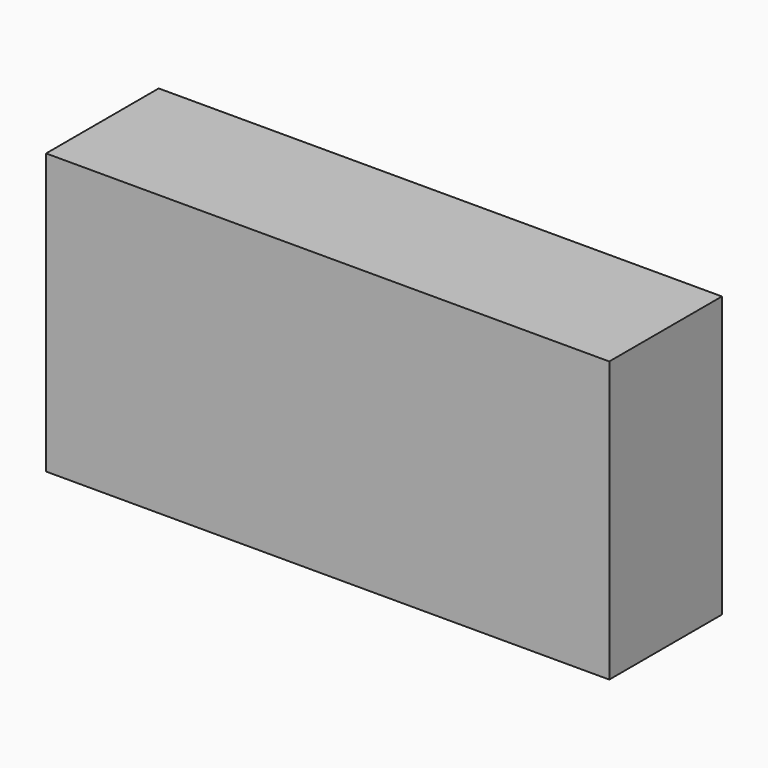
from build123d import *

# Parameters (mm, degrees)
F0_W     = 101.6
F0_H     = 50.525406
F0_W_2   = 19.509831
F0_H_2   = 13.40069
F0_W_3   = 18.721553
F0_H_3   = 13.794828
F0_W_4   = 18.524485
F0_H_4   = 13.597759
F0_W_5   = 17.933276
F0_H_5   = 14.780172
F0_H_6   = 15.568447
F0_W_6   = 17.933277
F0_H_7   = 14.583104
F1_DEPTH = 25.4
F2_DEPTH = 12.7


with BuildPart() as f1:
    # F0 (on Front) → F1 (new body)
    with BuildSketch(Plane.XZ):
        Rectangle(F0_W, F0_H)
        with Locations((-38.724052, -12.809483)):
            Rectangle(F0_W_2, F0_H_2, mode=Mode.SUBTRACT)
        with Locations((-9.360777, -12.612414)):
            Rectangle(F0_W_3, F0_H_3, mode=Mode.SUBTRACT)
        with Locations((17.736209, -12.710948)):
            Rectangle(F0_W_4, F0_H_4, mode=Mode.SUBTRACT)
        with Locations((-8.966638, 12.513879)):
            Rectangle(F0_W_5, F0_H_5, mode=Mode.SUBTRACT)
        with Locations((-38.329913, 12.908016)):
            Rectangle(F0_W_3, F0_H_6, mode=Mode.SUBTRACT)
        with Locations((18.031813, 12.415345)):
            Rectangle(F0_W_6, F0_H_7, mode=Mode.SUBTRACT)
        with Locations((-38.329913, 12.908016)):
            Rectangle(F0_W_3, F0_H_6)
        with Locations((-8.966638, 12.513879)):
            Rectangle(F0_W_5, F0_H_5)
        with Locations((18.031813, 12.415345)):
            Rectangle(F0_W_6, F0_H_7)
        with Locations((17.736209, -12.710948)):
            Rectangle(F0_W_4, F0_H_4)
        with Locations((-9.360777, -12.612414)):
            Rectangle(F0_W_3, F0_H_3)
        with Locations((-38.724052, -12.809483)):
            Rectangle(F0_W_2, F0_H_2)
    extrude(amount=F1_DEPTH)

    # F0 (on Front) → F2 (cut)
    with BuildSketch(Plane.XZ):
        with Locations((-38.329913, 12.908016)):
            Rectangle(F0_W_3, F0_H_6)
        with Locations((-8.966638, 12.513879)):
            Rectangle(F0_W_5, F0_H_5)
        with Locations((18.031813, 12.415345)):
            Rectangle(F0_W_6, F0_H_7)
        with Locations((17.736209, -12.710948)):
            Rectangle(F0_W_4, F0_H_4)
        with Locations((-9.360777, -12.612414)):
            Rectangle(F0_W_3, F0_H_3)
        with Locations((-38.724052, -12.809483)):
            Rectangle(F0_W_2, F0_H_2)
    extrude(amount=F2_DEPTH, mode=Mode.SUBTRACT)


solid = f1.part
